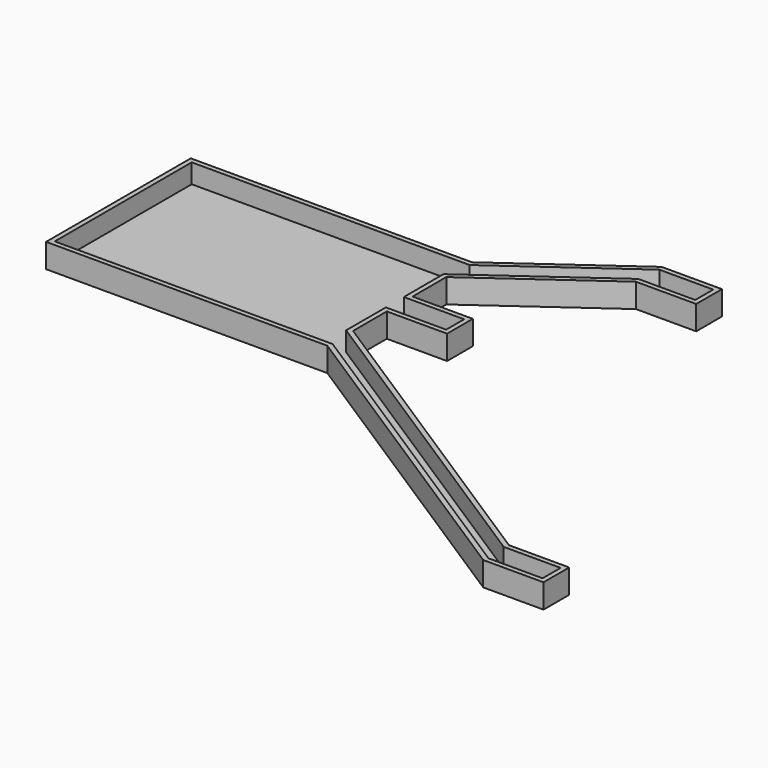
from build123d import *

# Parameters (mm, degrees)
PAD_DEPTH   = 6
THICKNESS_T = -1.2


with BuildPart() as part:
    # Sketch → Pad (new body)
    with BuildSketch(Plane.XY):
        Polygon((80, -74), (65, -74), (-15, -22.5), (-85, -22.5), (-85, 22.5), (-15, 22.5), (15, 44), (30, 44), (30, 36), (15, 36), (-15, 14.5), (-15, 4), (0, 4), (0, -4), (-15, -4), (-15, -14.5), (65, -66), (80, -66), align=None)
    extrude(amount=PAD_DEPTH)

    # Thickness
    thickness_openings = [part.faces().sort_by_distance(p)[0] for p in [
        (-29.840547, -5.671982, 6),
    ]]
    offset(amount=THICKNESS_T, openings=thickness_openings, kind=Kind.INTERSECTION)


solid = part.part
